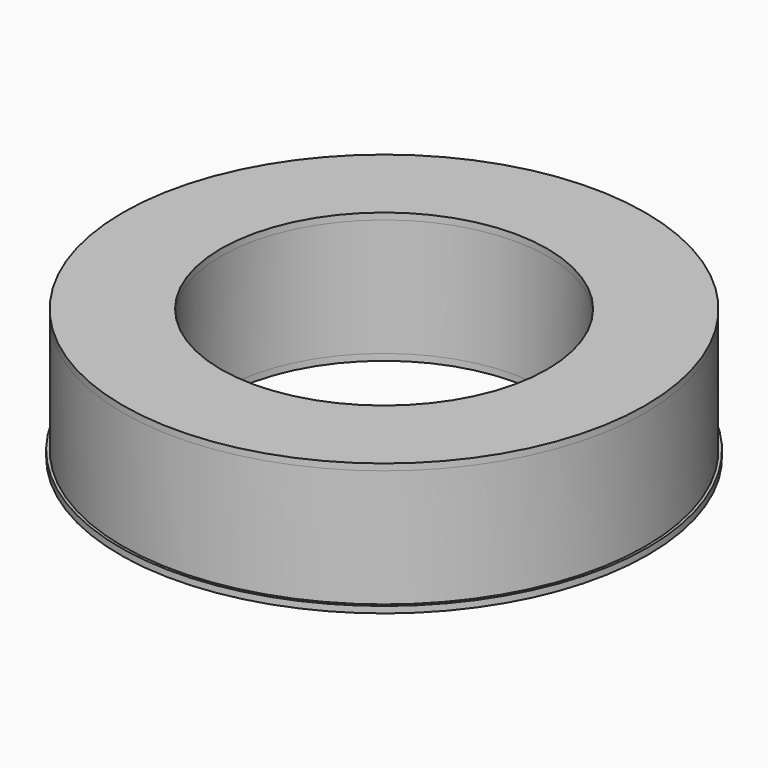
from build123d import *

# Parameters (mm, degrees)
F0_R     = 8.89
F0_R_2   = 6.35
F1_DEPTH = 4.572
F2_R     = 10.16
F2_R_2   = 9.398
F3_DEPTH = 4.572
F4_R     = 10.267661
F4_R_2   = 6.35
F5_DEPTH = 0.254
F6_R     = 10.16
F6_R_2   = 6.35
F7_DEPTH = 0.254


with BuildPart() as f1:
    # F0 (on Top) → F1 (new body)
    with BuildSketch(Plane.XY):
        Circle(F0_R)
        Circle(F0_R_2, mode=Mode.SUBTRACT)
    extrude(amount=F1_DEPTH)


with BuildPart() as f3:
    # F2 (on Top) → F3 (new body)
    with BuildSketch(Plane.XY):
        Circle(F2_R)
        Circle(F2_R_2, mode=Mode.SUBTRACT)
    extrude(amount=F3_DEPTH)


with BuildPart() as f5:
    # F4 (on Top) → F5 (new body)
    with BuildSketch(Plane.XY):
        Circle(F4_R)
        Circle(F4_R_2, mode=Mode.SUBTRACT)
    extrude(amount=-F5_DEPTH)


with BuildPart() as f7:
    # F6 (on face) → F7 (new body)
    with BuildSketch(Plane.XY.offset(4.572)):
        Circle(F6_R)
        Circle(F6_R_2, mode=Mode.SUBTRACT)
    extrude(amount=F7_DEPTH)


solid = Compound([f1.part, f3.part, f5.part, f7.part])
